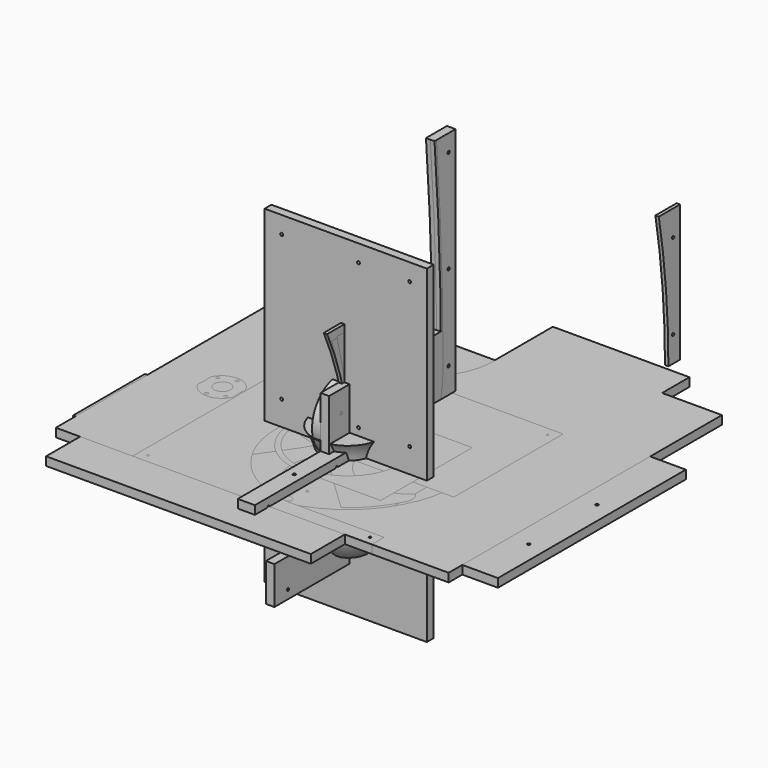
from build123d import *

# Parameters (mm, degrees)
F2_R      = 50.8
F2_R_2    = 6.35
F3_DEPTH  = 12.7
F6_R      = 2.1209
F7_DEPTH  = 12.7
F8_SIZE2  = 6.35
F8_SIZE   = 3.6576
F9_W      = 241.3
F9_H      = 349.25
F9_R      = 2.1209
F10_DEPTH = 12.7
F11_W     = 304.8
F11_H     = 25.4
F11_R     = 2.1209
F12_DEPTH = 25.4
F14_D     = 4.2418
F15_D     = 4.2418
F16_W     = 241.3
F16_H     = 488.95
F16_R     = 2.1209
F17_DEPTH = 12.7
F18_W     = 234.95
F18_H     = 234.95
F18_R     = 2.1209
F19_DEPTH = 12.7
F20_DEPTH = 12.7
F21_SIZE2 = 3.6576
F21_SIZE  = 6.35
F22_R     = 2.1209
F23_DEPTH = 12.7
F24_W     = 393.7
F24_H     = 514.35
F24_R     = 2.1209
F25_DEPTH = 12.7
F26_R     = 2.1209
F27_DEPTH = 5.08
F28_R     = 2.1209
F29_DEPTH = 5.08
F30_R     = 2.1209
F31_DEPTH = 5.08
F32_R     = 2.1209
F33_DEPTH = 5.08
F34_R     = 77.7875
F35_DEPTH = 12.7
F37_DEPTH = 12.7
F38_R     = 12.192
F39_DEPTH = 12.7
F40_R     = 3.175
F40_R_2   = 162.56
F41_DEPTH = 12.7
F42_R     = 1.6256
F42_R_2   = 22.2504
F43_DEPTH = 12.7
F44_R     = 2.54
F44_R_2   = 12.192
F45_DEPTH = 12.7
F46_R     = 2.54
F46_R_2   = 12.192
F47_DEPTH = 12.7
F49_DEPTH = 12.7


with BuildPart() as f1:
    # F0 (on Front) → F1 (revolve)
    with BuildSketch(Plane.XZ):
        with BuildLine():
            ThreePointArc((50.8, -38.1), (38.1, 0), (50.8, 38.1))
            Line((50.8, 38.1), (0, 38.1))
            Line((0, 38.1), (0, -38.1))
            Line((0, -38.1), (50.8, -38.1))
        make_face()
    revolve(axis=Axis((0, 0, 0), (0, 0, -1)))


with BuildPart() as f3:
    # F2 (on Right) → F3 (new body, symmetric)
    with BuildSketch(Plane.YZ):
        with Locations((0, 50.8)):
            Circle(F2_R)
        with Locations((0, 50.8)):
            Circle(F2_R_2, mode=Mode.SUBTRACT)
    extrude(amount=F3_DEPTH, both=True)


with BuildPart() as f5:
    # F4 (on Front) → F5 (revolve)
    with BuildSketch(Plane.XZ):
        with BuildLine():
            Line((0, 0), (0, -127))
            ThreePointArc((0, -127), (63.5, -63.5), (0, 0))
        make_face()
    revolve(axis=Axis((0, 0, -63.5), (0, 0, -1)))


with BuildPart() as f7:
    # F6 (on Right) → F7 (new body)
    with BuildSketch(Plane.YZ):
        with BuildLine():
            Line((-152.4, -77.1799758077), (-152.4, -133.35))
            Line((-152.4, -133.35), (184.15, -133.35))
            Line((184.15, -133.35), (184.15, 50.8))
            Line((184.15, 50.8), (184.15, 355.6))
            Line((184.15, 355.6), (145.1862070834, 355.6))
            ThreePointArc((145.1862070834, 355.6), (154.405302793, 203.323913981), (157.48, 50.8))
            ThreePointArc((157.48, 50.8), (71.932517945, -89.2916245252), (-91.7664219215, -77.1799758077))
            Line((-91.7664219215, -77.1799758077), (-152.4, -77.1799758077))
        make_face()
        with Locations((-127, -120.65)):
            Circle(F6_R, mode=Mode.SUBTRACT)
        with Locations((0, -120.6246241927)):
            Circle(F6_R, mode=Mode.SUBTRACT)
        with Locations((127, -120.6246241927)):
            Circle(F6_R, mode=Mode.SUBTRACT)
        with Locations((171.45, -76.2)):
            Circle(F6_R, mode=Mode.SUBTRACT)
        with Locations((171.45, 50.8)):
            Circle(F6_R, mode=Mode.SUBTRACT)
        with Locations((171.45, 177.8)):
            Circle(F6_R, mode=Mode.SUBTRACT)
        with Locations((171.45, 330.2)):
            Circle(F6_R, mode=Mode.SUBTRACT)
    extrude(amount=F7_DEPTH)

    # F8
    f8_edges = [f7.edges().sort_by_distance(p)[0] for p in [
        (0, 154.405303, 203.323914),
    ]]
    f8_side = f7.faces().sort_by_distance((0, 74.643831, -94.572021))[0]
    chamfer(f8_edges, length=F8_SIZE, length2=F8_SIZE2, reference=f8_side)


with BuildPart() as f10:
    # F9 (on Top) → F10 (new body)
    with BuildSketch(Plane.XY):
        with Locations((224.4677305073, 22.225)):
            Rectangle(F9_W, F9_H)
        with Locations((129.2177305073, -63.5)):
            Circle(F9_R, mode=Mode.SUBTRACT)
        with Locations((243.5177305073, -63.5)):
            Circle(F9_R, mode=Mode.SUBTRACT)
        with Locations((319.7177305073, -63.5)):
            Circle(F9_R, mode=Mode.SUBTRACT)
        with Locations((129.2177305073, 63.5)):
            Circle(F9_R, mode=Mode.SUBTRACT)
        with Locations((243.5177305073, 63.5)):
            Circle(F9_R, mode=Mode.SUBTRACT)
        with Locations((319.7177305073, 63.5)):
            Circle(F9_R, mode=Mode.SUBTRACT)
    extrude(amount=F10_DEPTH)


with BuildPart() as f12:
    # F11 (on Right) → F12 (new body)
    with BuildSketch(Plane.YZ):
        with Locations((-52.2242902292, 12.7)):
            Rectangle(F11_W, F11_H)
        with Locations((-179.2242902292, 12.7)):
            Circle(F11_R, mode=Mode.SUBTRACT)
        with Locations((-52.2242902292, 12.7)):
            Circle(F11_R, mode=Mode.SUBTRACT)
        with Locations((74.7757097708, 12.7)):
            Circle(F11_R, mode=Mode.SUBTRACT)
    extrude(amount=F12_DEPTH)

    # F14 (through all)
    with Locations(Plane(origin=(0, 0, 0), x_dir=(1, 0, 0), z_dir=(0, 0, -1))):
        with Locations((12.7, 115.7242902292)):
            Hole(F14_D / 2)

    # F15 (through all)
    with Locations(Plane(origin=(0, 0, 0), x_dir=(1, 0, 0), z_dir=(0, 0, -1))):
        with Locations((12.7, -11.2757097708)):
            Hole(F15_D / 2)


with BuildPart() as f17:
    # F16 (on Front) → F17 (new body)
    with BuildSketch(Plane.XZ):
        with Locations((6.9376293472, 45.8904533467)):
            Rectangle(F16_W, F16_H)
        with Locations((-88.3123706528, -77.9345466533)):
            Circle(F16_R, mode=Mode.SUBTRACT)
        with Locations((25.9876293472, -77.9345466533)):
            Circle(F16_R, mode=Mode.SUBTRACT)
        with Locations((102.1876293472, -77.9345466533)):
            Circle(F16_R, mode=Mode.SUBTRACT)
        with Locations((-88.3123706528, 49.0654533467)):
            Circle(F16_R, mode=Mode.SUBTRACT)
        with Locations((-88.3123706528, 264.9654533467)):
            Circle(F16_R, mode=Mode.SUBTRACT)
        with Locations((25.9876293472, 49.0654533467)):
            Circle(F16_R, mode=Mode.SUBTRACT)
        with Locations((102.1876293472, 49.0654533467)):
            Circle(F16_R, mode=Mode.SUBTRACT)
        with Locations((25.9876293472, 264.9654533467)):
            Circle(F16_R, mode=Mode.SUBTRACT)
        with Locations((102.1876293472, 264.9654533467)):
            Circle(F16_R, mode=Mode.SUBTRACT)
    extrude(amount=F17_DEPTH)


with BuildPart() as f19:
    # F18 (on Right) → F19 (new body)
    with BuildSketch(Plane.YZ):
        with Locations((66.675, -15.875)):
            Rectangle(F18_W, F18_H)
        with Locations((0, -120.6246241927)):
            Circle(F18_R, mode=Mode.SUBTRACT)
        with Locations((127, -120.6246241927)):
            Circle(F18_R, mode=Mode.SUBTRACT)
        with Locations((171.45, -76.2)):
            Circle(F18_R, mode=Mode.SUBTRACT)
        with Locations((-27.94, 31.75)):
            Circle(F18_R, mode=Mode.SUBTRACT)
        with Locations((27.94, 31.75)):
            Circle(F18_R, mode=Mode.SUBTRACT)
        with Locations((-27.94, 69.85)):
            Circle(F18_R, mode=Mode.SUBTRACT)
        with BuildLine():
            ThreePointArc((-12.7, 57.15), (0, 69.85), (12.7, 57.15))
            Line((12.7, 57.15), (12.7, 44.45))
            ThreePointArc((12.7, 44.45), (0, 31.75), (-12.7, 44.45))
            Line((-12.7, 44.45), (-12.7, 57.15))
        make_face(mode=Mode.SUBTRACT)
        with Locations((27.94, 69.85)):
            Circle(F18_R, mode=Mode.SUBTRACT)
        with Locations((171.45, 50.8)):
            Circle(F18_R, mode=Mode.SUBTRACT)
    extrude(amount=F19_DEPTH)


with BuildPart() as f20:
    # F6 (on Right) → F20 (new body)
    with BuildSketch(Plane.YZ):
        with BuildLine():
            Line((-152.4, -77.1799758077), (-152.4, -133.35))
            Line((-152.4, -133.35), (184.15, -133.35))
            Line((184.15, -133.35), (184.15, 50.8))
            Line((184.15, 50.8), (184.15, 355.6))
            Line((184.15, 355.6), (145.1862070834, 355.6))
            ThreePointArc((145.1862070834, 355.6), (154.405302793, 203.323913981), (157.48, 50.8))
            ThreePointArc((157.48, 50.8), (71.932517945, -89.2916245252), (-91.7664219215, -77.1799758077))
            Line((-91.7664219215, -77.1799758077), (-152.4, -77.1799758077))
        make_face()
        with Locations((-127, -120.65)):
            Circle(F6_R, mode=Mode.SUBTRACT)
        with Locations((0, -120.6246241927)):
            Circle(F6_R, mode=Mode.SUBTRACT)
        with Locations((127, -120.6246241927)):
            Circle(F6_R, mode=Mode.SUBTRACT)
        with Locations((171.45, -76.2)):
            Circle(F6_R, mode=Mode.SUBTRACT)
        with Locations((171.45, 50.8)):
            Circle(F6_R, mode=Mode.SUBTRACT)
        with Locations((171.45, 177.8)):
            Circle(F6_R, mode=Mode.SUBTRACT)
        with Locations((171.45, 330.2)):
            Circle(F6_R, mode=Mode.SUBTRACT)
    extrude(amount=F20_DEPTH)

    # F21
    f21_edges = [f20.edges().sort_by_distance(p)[0] for p in [
        (12.7, 154.405303, 203.323914),
    ]]
    f21_side = f20.faces().sort_by_distance((6.35, 154.405303, 203.323914))[0]
    chamfer(f21_edges, length=F21_SIZE, length2=F21_SIZE2, reference=f21_side)


with BuildPart() as f23:
    # F22 (on Top) → F23 (new body)
    with BuildSketch(Plane.XY):
        with BuildLine():
            Line((-295.7173599652, -7.83447659), (-295.7173599652, -141.18447659))
            Line((-295.7173599652, -141.18447659), (72.5826400348, -141.18447659))
            Line((72.5826400348, -141.18447659), (72.5826400348, 42.96552341))
            Line((72.5826400348, 42.96552341), (72.5826400348, 373.16552341))
            Line((72.5826400348, 373.16552341), (31.4804240996, 373.16552341))
            ThreePointArc((31.4804240996, 373.16552341), (42.3028645376, 208.2231471803), (45.9126400348, 42.96552341))
            ThreePointArc((45.9126400348, 42.96552341), (-85.8209413143, -112.3955795941), (-260.6287915966, -7.83447659))
            Line((-260.6287915966, -7.83447659), (-295.7173599652, -7.83447659))
        make_face()
        with Locations((-238.5673599652, -128.48447659)):
            Circle(F22_R, mode=Mode.SUBTRACT)
        with Locations((-111.5673599652, -128.4591007827)):
            Circle(F22_R, mode=Mode.SUBTRACT)
        with Locations((15.4326400348, -128.4591007827)):
            Circle(F22_R, mode=Mode.SUBTRACT)
        with Locations((59.8826400348, -84.03447659)):
            Circle(F22_R, mode=Mode.SUBTRACT)
        with Locations((59.8826400348, 42.96552341)):
            Circle(F22_R, mode=Mode.SUBTRACT)
        with Locations((59.8826400348, 169.96552341)):
            Circle(F22_R, mode=Mode.SUBTRACT)
        with Locations((59.8826400348, 322.36552341)):
            Circle(F22_R, mode=Mode.SUBTRACT)
    extrude(amount=F23_DEPTH)


with BuildPart() as f25:
    # F24 (on Top) → F25 (new body)
    with BuildSketch(Plane.XY):
        with Locations((-59.1738544229, 16.1819872856)):
            Rectangle(F24_W, F24_H)
        with Locations((-230.6238544229, -120.3430127144)):
            Circle(F24_R, mode=Mode.SUBTRACT)
        with Locations((-116.3238544229, -120.3430127144)):
            Circle(F24_R, mode=Mode.SUBTRACT)
        with Locations((-78.2238544229, -120.3430127144)):
            Circle(F24_R, mode=Mode.SUBTRACT)
        with Locations((-230.6238544229, 6.6569872856)):
            Circle(F24_R, mode=Mode.SUBTRACT)
        with Locations((-116.3238544229, 6.6569872856)):
            Circle(F24_R, mode=Mode.SUBTRACT)
        with Locations((-78.2238544229, 6.6569872856)):
            Circle(F24_R, mode=Mode.SUBTRACT)
        with Locations((36.0761455771, -120.3430127144)):
            Circle(F24_R, mode=Mode.SUBTRACT)
        with Locations((112.2761455771, -120.3430127144)):
            Circle(F24_R, mode=Mode.SUBTRACT)
        with Locations((36.0761455771, 6.6569872856)):
            Circle(F24_R, mode=Mode.SUBTRACT)
        with Locations((112.2761455771, 6.6569872856)):
            Circle(F24_R, mode=Mode.SUBTRACT)
        with Locations((-230.6238544229, 222.5569872856)):
            Circle(F24_R, mode=Mode.SUBTRACT)
        with Locations((-116.3238544229, 222.5569872856)):
            Circle(F24_R, mode=Mode.SUBTRACT)
        with Locations((-78.2238544229, 222.5569872856)):
            Circle(F24_R, mode=Mode.SUBTRACT)
        with Locations((36.0761455771, 222.5569872856)):
            Circle(F24_R, mode=Mode.SUBTRACT)
        with Locations((112.2761455771, 222.5569872856)):
            Circle(F24_R, mode=Mode.SUBTRACT)
    extrude(amount=F25_DEPTH)


with BuildPart() as f27:
    # F26 (on Right) → F27 (new body)
    with BuildSketch(Plane.YZ):
        with BuildLine():
            Line((21.59, -25.4), (21.59, 12.7))
            Line((21.59, 12.7), (21.59, 177.8))
            Line((21.59, 177.8), (-44.8643263338, 177.8))
            ThreePointArc((-44.8643263338, 177.8), (-11.3495378722, 78.6469218398), (0, -25.4))
            Line((0, -25.4), (21.59, -25.4))
        make_face()
        with Locations((8.89, 12.7)):
            Circle(F26_R, mode=Mode.SUBTRACT)
        with Locations((8.89, 139.7)):
            Circle(F26_R, mode=Mode.SUBTRACT)
    extrude(amount=F27_DEPTH)


with BuildPart() as f29:
    # F28 (on Right) → F29 (new body)
    with BuildSketch(Plane.YZ):
        with BuildLine():
            Line((21.59, -37.9340322633), (21.59, 0.1659677367))
            Line((21.59, 0.1659677367), (21.59, 165.2659677367))
            Line((21.59, 165.2659677367), (-36.4779902177, 165.2659677367))
            ThreePointArc((-36.4779902177, 165.2659677367), (-9.1918095736, 65.2900973895), (0, -37.9340322633))
            Line((0, -37.9340322633), (21.59, -37.9340322633))
        make_face()
        with Locations((8.89, 0.1659677367)):
            Circle(F28_R, mode=Mode.SUBTRACT)
        with Locations((8.89, 127.1659677367)):
            Circle(F28_R, mode=Mode.SUBTRACT)
    extrude(amount=F29_DEPTH)


with BuildPart() as f31:
    # F30 (on Right) → F31 (new body)
    with BuildSketch(Plane.YZ):
        with BuildLine():
            Line((21.59, -35.8508275767), (21.59, 2.2491724233))
            Line((21.59, 2.2491724233), (21.59, 167.3491724233))
            Line((21.59, 167.3491724233), (-26.6710601009, 167.3491724233))
            ThreePointArc((-26.6710601009, 167.3491724233), (-6.6962382323, 66.6206141119), (0, -35.8508275767))
            Line((0, -35.8508275767), (21.59, -35.8508275767))
        make_face()
        with Locations((8.89, 2.2491724233)):
            Circle(F30_R, mode=Mode.SUBTRACT)
        with Locations((8.89, 129.2491724233)):
            Circle(F30_R, mode=Mode.SUBTRACT)
    extrude(amount=F31_DEPTH)


with BuildPart() as f33:
    # F32 (on Right) → F33 (new body)
    with BuildSketch(Plane.YZ):
        with BuildLine():
            Line((611.0609504185, -122.2707377692), (611.0609504185, -84.1707377692))
            Line((611.0609504185, -84.1707377692), (611.0609504185, 80.9292622308))
            Line((611.0609504185, 80.9292622308), (571.6657183538, 80.9292622308))
            ThreePointArc((571.6657183538, 80.9292622308), (585.0111307662, -20.2814414081), (589.4709504185, -122.2707377692))
            Line((589.4709504185, -122.2707377692), (611.0609504185, -122.2707377692))
        make_face()
        with Locations((598.3609504185, -84.1707377692)):
            Circle(F32_R, mode=Mode.SUBTRACT)
        with Locations((598.3609504185, 42.8292622308)):
            Circle(F32_R, mode=Mode.SUBTRACT)
    extrude(amount=F33_DEPTH)


with BuildPart() as f35:
    # F34 (on Top) → F35 (new body)
    with BuildSketch(Plane.XY):
        with BuildLine():
            Line((77.916984068, 44.45), (71.4375, 44.45))
            ThreePointArc((71.4375, 44.45), (-84.1375, 0), (71.4375, -44.45))
            Line((71.4375, -44.45), (77.916984068, -44.45))
            Line((77.916984068, -44.45), (90.616984068, -44.45))
            Line((90.616984068, -44.45), (90.616984068, 44.45))
            Line((90.616984068, 44.45), (77.916984068, 44.45))
        make_face()
        Circle(F34_R, mode=Mode.SUBTRACT)
    extrude(amount=F35_DEPTH)


with BuildPart() as f37:
    # F36 (on Top) → F37 (new body)
    with BuildSketch(Plane.XY):
        with BuildLine():
            ThreePointArc((64.77, -43.0783269899), (-77.7875, 0), (64.77, 43.0783269899))
            Line((64.77, 43.0783269899), (64.77, 55.1829248953))
            Line((64.77, 55.1829248953), (64.77, 69.85))
            Line((64.77, 69.85), (91.44, 69.85))
            Line((91.44, 69.85), (91.44, 85.09))
            Line((91.44, 85.09), (0, 85.09))
            ThreePointArc((0, 85.09), (-85.09, 0), (0, -85.09))
            Line((0, -85.09), (91.44, -85.09))
            Line((91.44, -85.09), (91.44, -69.85))
            Line((91.44, -69.85), (64.77, -69.85))
            Line((64.77, -69.85), (64.77, -43.0783269899))
        make_face()
    extrude(amount=F37_DEPTH)


with BuildPart() as f39:
    # F38 (on Top) → F39 (new body)
    with BuildSketch(Plane.XY):
        with BuildLine():
            ThreePointArc((-37.0603138523, -37.4717404784), (-37.0909998482, -37.5162335862), (-37.121722248, -37.560701565))
            Line((-37.121722248, -37.560701565), (-96.8901858926, -124.1460522034))
            ThreePointArc((-96.8901858926, -124.1460522034), (-36.0294889863, -153.3030538619), (31.4475067845, -154.3081485763))
            ThreePointArc((31.4475067845, -154.3081485763), (31.6102574626, -154.2748910975), (31.7729729694, -154.2414619637))
            ThreePointArc((31.7729729694, -154.2414619637), (35.9302139986, -149.1760111733), (32.1534656553, -143.8208625633))
            ThreePointArc((32.1534656553, -143.8208625633), (31.6705447979, -143.7176079666), (31.1884095576, -143.6107450806))
            ThreePointArc((31.1884095576, -143.6107450806), (-19.9888909226, -72.5845727119), (44.3003225679, -13.1646242555))
            Line((44.3003225679, -13.1646242555), (156.9287834281, -13.1646242555))
            ThreePointArc((156.9287834281, -13.1646242555), (149.6640280819, 48.9962151427), (118.7622868786, 103.4189035688))
            ThreePointArc((118.7622868786, 103.4189035688), (112.1325682262, 105.3087828598), (108.593785428, 99.3925484618))
            ThreePointArc((108.593785428, 99.3925484618), (73.5546902751, 19.3018715963), (-10.2590111434, 44.1517843612))
            Line((-10.2590111434, 44.1517843612), (-73.7682656801, 139.1337248066))
            ThreePointArc((-73.7682656801, 139.1337248066), (-119.5104935893, 102.5533632898), (-148.7213306779, 51.7872204446))
            ThreePointArc((-148.7213306779, 51.7872204446), (-146.6622663487, 44.9266670815), (-139.5083405421, 45.2848345202))
            ThreePointArc((-139.5083405421, 45.2848345202), (-49.941554882, 51.3727617788), (-37.0603138523, -37.4717404784))
        make_face()
        with BuildLine():
            ThreePointArc((-14.0309369711, -19.2397495816), (-11.1794451689, -18.1896804418), (-9.3617973941, -20.6248))
            ThreePointArc((-9.3617973941, -20.6248), (-9.4316181313, -21.2162511051), (-9.6372418112, -21.7751860273))
            ThreePointArc((-9.6372418112, -21.7751860273), (-13.1713224495, -22.8247786667), (-14.0309369711, -19.2397495816))
        make_face(mode=Mode.SUBTRACT)
        Circle(F38_R, mode=Mode.SUBTRACT)
        with BuildLine():
            ThreePointArc((-14.0309369711, 19.2397495816), (-13.1713224495, 22.8247786667), (-9.6372418112, 21.7751860273))
            ThreePointArc((-9.6372418112, 21.7751860273), (-9.4316181313, 21.2162511051), (-9.3617973941, 20.6248))
            ThreePointArc((-9.3617973941, 20.6248), (-11.1794451689, 18.1896804418), (-14.0309369711, 19.2397495816))
        make_face(mode=Mode.SUBTRACT)
        with BuildLine():
            ThreePointArc((23.6770333333, 2.536384983), (25.56000031, 1.8433238095), (26.3525, 0))
            ThreePointArc((26.3525, 0), (25.56000031, -1.8433238095), (23.6770333333, -2.536384983))
            ThreePointArc((23.6770333333, -2.536384983), (21.2725, 0), (23.6770333333, 2.536384983))
        make_face(mode=Mode.SUBTRACT)
        with BuildLine():
            ThreePointArc((31.7729729694, -154.2414619637), (31.6102574626, -154.2748910975), (31.4475067845, -154.3081485763))
            ThreePointArc((31.4475067845, -154.3081485763), (31.6107520202, -154.2773048016), (31.7729729694, -154.2414619637))
        make_face()
        with BuildLine():
            ThreePointArc((31.1884095576, -143.6107450806), (31.6705447979, -143.7176079666), (32.1534656553, -143.8208625633))
            ThreePointArc((32.1534656553, -143.8208625633), (31.6757437218, -143.6937296432), (31.1884095576, -143.6107450806))
        make_face()
    extrude(amount=F39_DEPTH)


with BuildPart() as f41:
    # F40 (on Top) → F41 (new body)
    with BuildSketch(Plane.XY):
        with BuildLine():
            Line((-177.8, 381), (-292.1, 381))
            Line((-292.1, 381), (-292.1, -177.8))
            Line((-292.1, -177.8), (292.1, -177.8))
            Line((292.1, -177.8), (292.1, 330.2))
            Line((292.1, 330.2), (203.2, 330.2))
            Line((203.2, 330.2), (203.2, 381))
            Line((203.2, 381), (0, 381))
            Line((0, 381), (0, 266.7))
            ThreePointArc((0, 266.7), (-88.9, 177.8), (-177.8, 266.7))
            Line((-177.8, 266.7), (-177.8, 381))
        make_face()
        with Locations((-165.1, -165.1)):
            Circle(F40_R, mode=Mode.SUBTRACT)
        with Locations((165.1, -165.1)):
            Circle(F40_R, mode=Mode.SUBTRACT)
        Circle(F40_R_2, mode=Mode.SUBTRACT)
    extrude(amount=F41_DEPTH)


with BuildPart() as f43:
    # F42 (on Top) → F43 (new body)
    with BuildSketch(Plane.XY):
        with BuildLine():
            Line((177.8, 177.8), (-177.8, 177.8))
            Line((-177.8, 177.8), (-177.8, -177.8))
            Line((-177.8, -177.8), (177.8, -177.8))
            Line((177.8, -177.8), (177.8, -154.94))
            Line((177.8, -154.94), (31.4256027341, -154.94))
            ThreePointArc((31.4256027341, -154.94), (-61.8839339401, -103.2115832225), (-88.9, 0))
            ThreePointArc((-88.9, 0), (-46.2286977969, -18.9254422893), (0, -25.4))
            Line((0, -25.4), (177.8, -25.4))
            Line((177.8, -25.4), (177.8, 177.8))
        make_face()
        with Locations((-165.1, -165.1)):
            Circle(F42_R, mode=Mode.SUBTRACT)
        with Locations((165.1, -165.1)):
            Circle(F42_R, mode=Mode.SUBTRACT)
        with Locations((-165.1, 165.1)):
            Circle(F42_R, mode=Mode.SUBTRACT)
        Circle(F42_R_2, mode=Mode.SUBTRACT)
        with Locations((165.1, 165.1)):
            Circle(F42_R, mode=Mode.SUBTRACT)
    extrude(amount=F43_DEPTH)


with BuildPart() as f45:
    # F44 (on Top) → F45 (new body)
    with BuildSketch(Plane.XY):
        with BuildLine():
            Line((17.9854805745, 22.2047993349), (-92.1644176737, 127.6936588671))
            ThreePointArc((-92.1644176737, 127.6936588671), (-120.8551817198, 100.9652190186), (-142.0530584467, 67.9770474936))
            ThreePointArc((-142.0530584467, 67.9770474936), (-143.4064445275, 56.7278794821), (-138.1373318296, 46.6973318296))
            ThreePointArc((-138.1373318296, 46.6973318296), (-61.118273177, 58.6674908486), (-26.3370659722, -11.0855573146))
            ThreePointArc((-26.3370659722, -11.0855573146), (-23.5402196929, -16.1984160278), (-19.7642156118, -20.6375))
            Line((-19.7642156118, -20.6375), (92.0833153904, -127.7521562508))
            ThreePointArc((92.0833153904, -127.7521562508), (121.4224165593, -100.282337213), (142.852526414, -66.2805106886))
            ThreePointArc((142.852526414, -66.2805106886), (143.2529506257, -55.8248509285), (138.1373318296, -46.6973318296))
            ThreePointArc((138.1373318296, -46.6973318296), (61.118273177, -58.6674908486), (26.3370659722, 11.0855573146))
            ThreePointArc((26.3370659722, 11.0855573146), (22.8480068906, 17.1609791715), (17.9854805745, 22.2047993349))
        make_face()
        with Locations((-4.1349972307, -23.4507346186)):
            Circle(F44_R, mode=Mode.SUBTRACT)
        with Locations((18.2414333018, -15.3063799557)):
            Circle(F44_R, mode=Mode.SUBTRACT)
        with Locations((-18.2414333018, 15.3063799557)):
            Circle(F44_R, mode=Mode.SUBTRACT)
        with Locations((0.1720132582, 0.9755356642)):
            Circle(F44_R_2, mode=Mode.SUBTRACT)
        with Locations((4.1349972307, 23.4507346186)):
            Circle(F44_R, mode=Mode.SUBTRACT)
    extrude(amount=F45_DEPTH)


with BuildPart() as f47:
    # F46 (on Top) → F47 (new body)
    with BuildSketch(Plane.XY):
        with BuildLine():
            ThreePointArc((-231.8198953396, 33.5447445671), (-230.8828293674, 22.4591872525), (-231.8198953396, 11.3736299379))
            ThreePointArc((-231.8198953396, 11.3736299379), (-229.0230490603, 6.2607712247), (-225.2470449792, 1.8216872525))
            ThreePointArc((-225.2470449792, 1.8216872525), (-199.6853736555, -5.5215227504), (-179.1457633952, 11.3736299379))
            ThreePointArc((-179.1457633952, 11.3736299379), (-180.0828293674, 22.4591872525), (-179.1457633952, 33.5447445671))
            ThreePointArc((-179.1457633952, 33.5447445671), (-182.6348224768, 39.6201664241), (-187.4973487929, 44.6639865874))
            ThreePointArc((-187.4973487929, 44.6639865874), (-212.4360034944, 50.1753196407), (-231.8198953396, 33.5447445671))
        make_face()
        with Locations((-209.6178265981, -0.9915473661)):
            Circle(F46_R, mode=Mode.SUBTRACT)
        with Locations((-187.2413960656, 7.1528072969)):
            Circle(F46_R, mode=Mode.SUBTRACT)
        with Locations((-223.7242626692, 37.7655672082)):
            Circle(F46_R, mode=Mode.SUBTRACT)
        with Locations((-205.3108161092, 23.4347229167)):
            Circle(F46_R_2, mode=Mode.SUBTRACT)
        with Locations((-201.3478321367, 45.9099218711)):
            Circle(F46_R, mode=Mode.SUBTRACT)
    extrude(amount=F47_DEPTH)


with BuildPart() as f49:
    # F48 (on Top) → F49 (new body)
    with BuildSketch(Plane.XY):
        with BuildLine():
            Line((116.84, 85.09), (0, 85.09))
            ThreePointArc((0, 85.09), (-85.09, 0), (0, -85.09))
            Line((0, -85.09), (116.84, -85.09))
            Line((116.84, -85.09), (116.84, -69.85))
            Line((116.84, -69.85), (116.84, 69.85))
            Line((116.84, 69.85), (116.84, 85.09))
        make_face()
        with BuildLine():
            ThreePointArc((64.77, -43.0783269899), (-77.7875, 0), (64.77, 43.0783269899))
            ThreePointArc((64.77, 43.0783269899), (74.4620424487, 22.5010975427), (77.7875, 0))
            ThreePointArc((77.7875, 0), (74.4620424487, -22.5010975427), (64.77, -43.0783269899))
        make_face(mode=Mode.SUBTRACT)
    extrude(amount=F49_DEPTH)


solid = Compound([f1.part, f3.part, f5.part, f7.part, f10.part, f12.part, f17.part, f19.part, f20.part, f23.part, f25.part, f27.part, f29.part, f31.part, f33.part, f35.part, f37.part, f39.part, f41.part, f43.part, f45.part, f47.part, f49.part])
